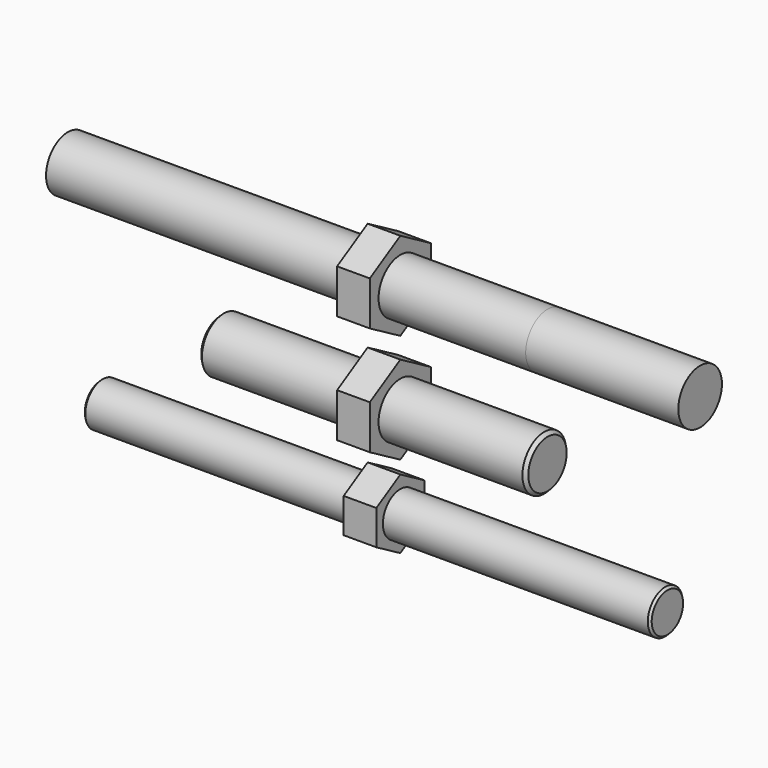
from build123d import *

# Parameters (mm, degrees)
F0_R      = 2
F1_DEPTH  = 26
F3_DEPTH  = 1.5
F4_R      = 2.5
F5_DEPTH  = 15
F7_DEPTH  = 1.5
F8_SIZE   = 0.2
F10_SIZE  = 0.3
F11_DEPTH = 14
F12_DEPTH = 14


with BuildPart() as f1:
    # F0 (on Right) → F1 (new body, symmetric)
    with BuildSketch(Plane.YZ):
        Circle(F0_R)
    extrude(amount=F1_DEPTH, both=True)

    # F2 (on Right) → F3 (join, symmetric)
    with BuildSketch(Plane.YZ):
        Polygon((2.75, -1.5877132403), (2.75, 1.5877132403), (0, 3.1754264805), (-2.75, 1.5877132403), (-2.75, -1.5877132403), (0, -3.1754264805), align=None)
    extrude(amount=F3_DEPTH, both=True)

    # F8
    f8_edges = [f1.edges().sort_by_distance(p)[0] for p in [
        (26, -2, 0),
        (-26, -2, 0),
    ]]
    chamfer(f8_edges, length=F8_SIZE)


with BuildPart() as f5:
    # F4 (on Right) → F5 (new body, symmetric)
    with BuildSketch(Plane.YZ):
        with Locations((0, 8.4119113909)):
            Circle(F4_R)
    extrude(amount=F5_DEPTH, both=True)

    # F6 (on Right) → F7 (join, symmetric)
    with BuildSketch(Plane.YZ):
        Polygon((3.5, 10.4326373331), (0, 12.4533632753), (-3.5, 10.4326373331), (-3.5, 6.3911854488), (0, 4.3704595066), (3.5, 6.3911854488), align=None)
    extrude(amount=F7_DEPTH, both=True)


with BuildPart() as f9_1:
    # F9: copy of F5
    add(f5.part.moved(Location((0, 0, 10))))

    # F11 (add): a face of the model
    f11_faces = [f9_1.faces().sort_by_distance(p)[0] for p in [
        (-15, 0, 18.4119113909),
    ]]
    extrude(f11_faces, amount=F11_DEPTH)

    # F12 (add): a face of the model
    f12_faces = [f9_1.faces().sort_by_distance(p)[0] for p in [
        (15, 0, 18.4119113909),
    ]]
    extrude(f12_faces, amount=F12_DEPTH)


with BuildPart() as f5_1:
    add(f5.part)

    # F10
    f10_edges = [f5_1.edges().sort_by_distance(p)[0] for p in [
        (-15, -2.5, 8.411911),
        (15, -2.5, 8.411911),
    ]]
    chamfer(f10_edges, length=F10_SIZE)


solid = Compound([f1.part, f9_1.part, f5_1.part])
